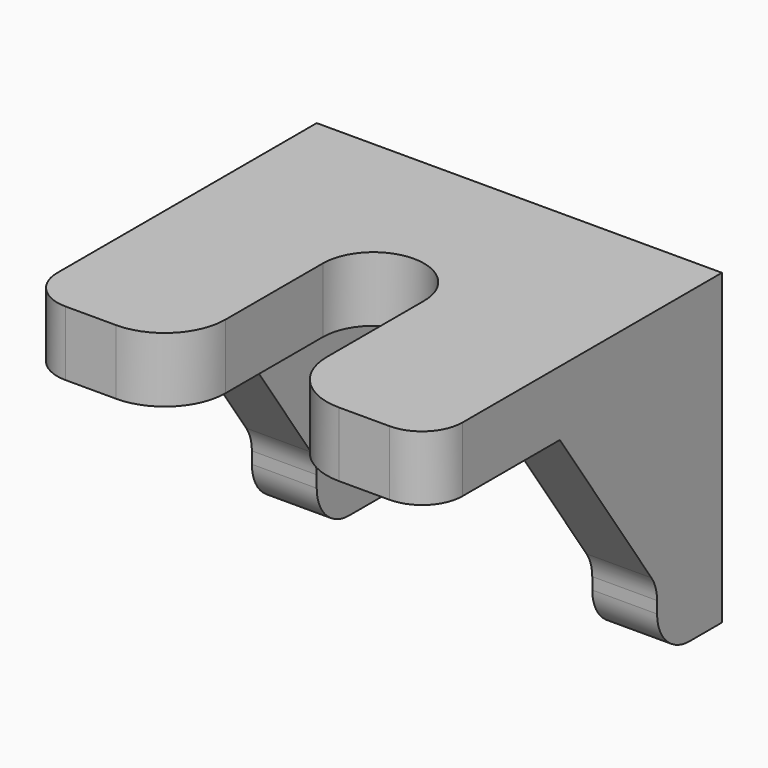
from build123d import *

# Parameters (mm, degrees)
PAD008_DEPTH            = 1.6
PAD009_DEPTH            = 1.6
LINEARPATTERN003_COUNT  = 2
LINEARPATTERN003_PITCH  = 8.4
FILLET012_R             = 1
FILLET013_R             = 1
FILLET014_R             = 1
FILLET015_R             = 1.5
BODY004_PLACEMENT_ANGLE = 90


with BuildPart() as part:
    # Sketch010 → Pad008 (new body)
    with BuildSketch(Plane.XY):
        with BuildLine():
            Line((-4.5, 5), (4.5, 5))
            Line((4.5, 5), (4.5, 1.25))
            Line((0, 1.25), (4.5, 1.25))
            ThreePointArc((0, 1.25), (-1.25, 0), (0, -1.25))
            Line((4.5, -1.25), (0, -1.25))
            Line((4.5, -1.25), (4.5, -5))
            Line((4.5, -5), (-4.5, -5))
            Line((-4.5, -5), (-4.5, 5))
        make_face()
    extrude(amount=PAD008_DEPTH)

    # Sketch011 (on DatumPlane) → Pad009 (join)
    with BuildSketch(Plane.XZ.offset(5)):
        Polygon((-4.5, 0), (-4.5, -6), (-2.5, -6), (-2.5, -4.4), (0.5, 0), align=None)
    pad009 = extrude(amount=-PAD009_DEPTH)

    # LinearPattern003: Pad009 ×2
    with Locations(*[(0, i * LINEARPATTERN003_PITCH, 0) for i in range(1, LINEARPATTERN003_COUNT)]):
        add(pad009)

    # Fillet012
    fillet012_edges = [part.edges().sort_by_distance(p)[0] for p in [
        (-2.5, -4.2, -6),
        (-2.5, 4.2, -6),
    ]]
    fillet(fillet012_edges, radius=FILLET012_R)

    # Fillet013
    fillet013_edges = [part.edges().sort_by_distance(p)[0] for p in [
        (-2.5, -4.2, -4.4),
        (-2.5, 4.2, -4.4),
    ]]
    fillet(fillet013_edges, radius=FILLET013_R)

    # Fillet014
    fillet014_edges = [part.edges().sort_by_distance(p)[0] for p in [
        (4.5, -5, 0.8),
        (4.5, 5, 0.8),
    ]]
    fillet(fillet014_edges, radius=FILLET014_R)

    # Fillet015
    fillet015_edges = [part.edges().sort_by_distance(p)[0] for p in [
        (4.5, -1.25, 0.8),
        (4.5, 1.25, 0.8),
    ]]
    fillet(fillet015_edges, radius=FILLET015_R)


with BuildPart() as part_1:
    # Body004 placement: moved
    add(part.part.moved(Location((-22.4, -32.5, 16.4))).rotate(Axis((-22.4, -32.5, 16.4), (0, 0, -1)), BODY004_PLACEMENT_ANGLE))


solid = part_1.part
